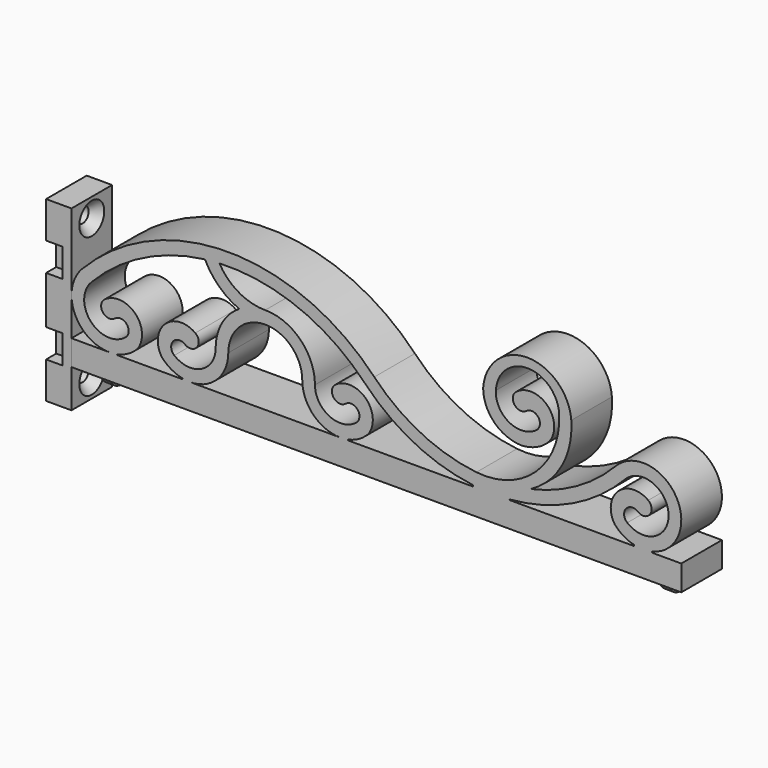
from build123d import *

# Parameters (mm, degrees)
F0_W           = 6.35
F0_H           = 44.45
F1_DEPTH       = 6.35
F2_W           = 3.937
F2_H           = 7.112
F3_DEPTH       = 4.7625
F5_D           = 3.7973
F5_CSINK_D     = 7.7978
F5_CSINK_ANGLE = 82
F8_DEPTH       = 6.35
F11_DEPTH      = 1.143
F14_DEPTH      = 1.143
F15_W          = 4.064
F15_H          = 7.112
F16_DEPTH      = 3.175


with BuildPart() as f1:
    # F0 (on Front) → F1 (new body, symmetric)
    with BuildSketch(Plane.XZ):
        Rectangle(F0_W, F0_H)
    extrude(amount=F1_DEPTH, both=True)

    # F2 (on face) → F3 (cut)
    with BuildSketch(Plane(origin=(-3.175, 0, 0), x_dir=(0, -1, 0), z_dir=(-1, 0, 0))):
        with Locations((0, 9.525)):
            Rectangle(F2_W, F2_H)
        with Locations((0, -9.525)):
            Rectangle(F2_W, F2_H)
    extrude(amount=-F3_DEPTH, mode=Mode.SUBTRACT)

    # F5 (through all)
    with Locations(Plane.YZ.offset(3.175)):
        with Locations((0, 17.4625), (0, -17.4625)):
            CounterSinkHole(F5_D / 2, F5_CSINK_D / 2, counter_sink_angle=F5_CSINK_ANGLE)

    # F15 (on face) → F16 (cut)
    with BuildSketch(Plane.XZ.offset(6.35)):
        with Locations((-1.143, 9.525)):
            Rectangle(F15_W, F15_H)
        with Locations((-1.143, -9.525)):
            Rectangle(F15_W, F15_H)
    extrude(amount=-F16_DEPTH, mode=Mode.SUBTRACT)


with BuildPart() as f8:
    # F7 (on Front) → F8 (new body, symmetric)
    with BuildSketch(Plane.XZ):
        with BuildLine():
            Line((12.7, -6.35), (3.175, -6.35))
            Line((3.175, -6.35), (3.175, -12.7))
            Line((3.175, -12.7), (14.2875, -12.7))
            Line((14.2875, -12.7), (144.5625834946, -12.7))
            Line((144.5625834946, -12.7), (155.6750834946, -12.7))
            Line((155.6750834946, -12.7), (155.6750834946, -6.35))
            Line((155.6750834946, -6.35), (148.5021922939, -6.35))
            ThreePointArc((148.5021922939, -6.35), (148.3580788731, -6.2225859603), (148.4668730467, -6.0639453495))
            ThreePointArc((148.4668730467, -6.0639453495), (154.3804826295, 7.9693878732), (139.2562374816, 9.7477096504))
            ThreePointArc((139.2562374816, 9.7477096504), (129.5037806783, 2.1697253309), (117.9591642139, -2.218678791))
            ThreePointArc((117.9591642139, -2.218678791), (125.8039665063, 5.4899725627), (128.1631921853, 16.2323318424))
            ThreePointArc((128.1631921853, 16.2323318424), (117.1418442393, 26.4792205859), (106.1204962932, 16.2323318424))
            ThreePointArc((106.1204962932, 16.2323318424), (108.0823783057, 10.4422652358), (113.15983935, 7.0373802622))
            ThreePointArc((113.15983935, 7.0373802622), (115.3769972686, 6.6640863202), (117.6116000187, 6.9124573185))
            ThreePointArc((117.6116000187, 6.9124573185), (120.3939871842, 7.9753675541), (122.7120509525, 9.8456715064))
            ThreePointArc((122.7120509525, 9.8456715064), (122.1424438367, 17.5947659007), (114.3836814777, 18.0125252276))
            ThreePointArc((114.3836814777, 18.0125252276), (113.9677725127, 15.0225614527), (116.9658802281, 14.6701217141))
            ThreePointArc((116.9658802281, 14.6701217141), (119.8656217416, 14.2905119355), (119.6241447484, 11.3760148449))
            ThreePointArc((119.6241447484, 11.3760148449), (112.7414311782, 10.6691417209), (109.3043522991, 16.6739651556))
            ThreePointArc((109.3043522991, 16.6739651556), (117.2181319858, 24.1507781775), (125.1319116725, 16.6739651556))
            ThreePointArc((125.1319116725, 16.6739651556), (119.3338490751, 2.073653457), (104.4377705355, -2.9156827438))
            ThreePointArc((104.4377705355, -2.9156827438), (90.5557194512, 1.1665394412), (78.9049942328, 9.7477096504))
            ThreePointArc((78.9049942328, 9.7477096504), (42.3555749323, 25.4), (5.8061551221, 9.747710841))
            ThreePointArc((5.8061551221, 9.747710841), (3.9441249506, -0.5747036043), (12.7, -6.35))
        make_face()
        with BuildLine():
            Line((42.4040103546, -6.35), (32.8790103546, -6.35))
            ThreePointArc((32.8790103546, -6.35), (39.6048411229, -3.5550297701), (42.389479598, 3.1750851377))
            ThreePointArc((42.389479598, 3.1750851377), (51.6399365376, 12.4254141584), (60.8903083398, 3.175))
            ThreePointArc((60.8903083398, 3.175), (63.680116249, -3.5601920908), (70.4153083398, -6.35))
            Line((70.4153083398, -6.35), (60.8903083398, -6.35))
            Line((60.8903083398, -6.35), (42.4040103546, -6.35))
        make_face(mode=Mode.SUBTRACT)
        with BuildLine():
            ThreePointArc((112.7424642446, -6.20032054), (128.4134060236, -1.971230267), (141.5541869093, 7.5568072273))
            ThreePointArc((141.5541869093, 7.5568072273), (152.4866200858, 3.5882844391), (142.1622860714, -1.7666567781))
            ThreePointArc((142.1622860714, -1.7666567781), (141.8440058077, 1.2128904936), (144.8235530793, 1.5311707573))
            ThreePointArc((144.8235530793, 1.5311707573), (147.8216607947, 1.8836104959), (147.4057518297, 4.8735742709))
            ThreePointArc((147.4057518297, 4.8735742709), (139.8134554086, 4.3627142336), (139.0835288352, -3.211660336))
            ThreePointArc((139.0835288352, -3.211660336), (141.2274153025, -4.9793217297), (143.7902276315, -6.0530390824))
            ThreePointArc((143.7902276315, -6.0530390824), (143.9025099516, -6.2180002291), (143.7528584905, -6.35))
            Line((143.7528584905, -6.35), (112.74858245, -6.35))
            ThreePointArc((112.74858245, -6.35), (112.6736802251, -6.2780968852), (112.7424642446, -6.20032054))
        make_face(mode=Mode.SUBTRACT)
        with BuildLine():
            ThreePointArc((16.6877974231, -1.7666567781), (8.0283630907, -1.1259660063), (8.1041034147, 7.5568072273))
            ThreePointArc((8.1041034147, 7.5568072273), (21.09299534, 17.1794235864), (36.5627344453, 21.8691177185))
            ThreePointArc((36.5627344453, 21.8691177185), (40.1051208921, 17.0272114642), (45.1259411578, 13.7433232546))
            ThreePointArc((45.1259411578, 13.7433232546), (40.8029525277, 9.22616916), (39.229010354, 3.1750851377))
            ThreePointArc((39.229010354, 3.1750851377), (35.6176603036, -2.5540746597), (28.8912129315, -1.7666567781))
            ThreePointArc((28.8912129315, -1.7666567781), (28.5729326677, 1.2128904936), (31.5524799393, 1.5311707573))
            ThreePointArc((31.5524799393, 1.5311707573), (34.5505876548, 1.8836104959), (34.1346786898, 4.8735742709))
            ThreePointArc((34.1346786898, 4.8735742709), (26.5423822687, 4.3627142336), (25.8124556953, -3.211660336))
            ThreePointArc((25.8124556953, -3.211660336), (28.1305194636, -5.0819642883), (30.9129066291, -6.1448745239))
            ThreePointArc((30.9129066291, -6.1448745239), (30.9946251149, -6.2570794195), (30.8915056926, -6.35))
            Line((30.8915056926, -6.35), (14.687504662, -6.35))
            ThreePointArc((14.687504662, -6.35), (14.5843852397, -6.2570794195), (14.6661037255, -6.1448745239))
            ThreePointArc((14.6661037255, -6.1448745239), (17.448490891, -5.0819642883), (19.7665546593, -3.211660336))
            ThreePointArc((19.7665546593, -3.211660336), (19.0366280859, 4.3627142336), (11.4443316648, 4.8735742709))
            ThreePointArc((11.4443316648, 4.8735742709), (11.0284226998, 1.8836104959), (14.0265304153, 1.5311707573))
            ThreePointArc((14.0265304153, 1.5311707573), (17.0060776869, 1.2128904936), (16.6877974231, -1.7666567781))
        make_face(mode=Mode.SUBTRACT)
        with BuildLine():
            ThreePointArc((40.1700301412, 22.1745061888), (59.9758804335, 18.8223696543), (76.6070448051, 7.5568072273))
            ThreePointArc((76.6070448051, 7.5568072273), (88.8533362909, -1.5318616167), (103.436497444, -5.9935840749))
            ThreePointArc((103.436497444, -5.9935840749), (103.592553348, -6.1823573261), (103.4139904195, -6.35))
            Line((103.4139904195, -6.35), (72.4028130018, -6.35))
            ThreePointArc((72.4028130018, -6.35), (72.2996935795, -6.2570794195), (72.3814120653, -6.1448745239))
            ThreePointArc((72.3814120653, -6.1448745239), (75.1637992309, -5.0819642883), (77.4818629991, -3.211660336))
            ThreePointArc((77.4818629991, -3.211660336), (76.7519364257, 4.3627142336), (69.1596400046, 4.8735742709))
            ThreePointArc((69.1596400046, 4.8735742709), (68.7437310396, 1.8836104959), (71.7418387551, 1.5311707573))
            ThreePointArc((71.7418387551, 1.5311707573), (74.7213860267, 1.2128904936), (74.4031057629, -1.7666567781))
            ThreePointArc((74.4031057629, -1.7666567781), (67.6766583907, -2.5540746597), (64.0653083404, 3.1750851378))
            ThreePointArc((64.0653083404, 3.1750851378), (60.4190158784, 11.9653004079), (51.6212651489, 15.5933736315))
            ThreePointArc((51.6212651489, 15.5933736315), (45.0137626955, 17.3494514739), (40.1700301412, 22.1745061888))
        make_face(mode=Mode.SUBTRACT)
    extrude(amount=F8_DEPTH, both=True)

    # F10 (on offset) → F11 (join, symmetric)
    with BuildSketch(Plane.YZ.offset(149.3250834946)):
        with BuildLine():
            Line((-2.38125, -12.7), (-3.96875, -12.7))
            ThreePointArc((-3.96875, -12.7), (0, -16.66875), (3.96875, -12.7))
            Line((3.96875, -12.7), (2.38125, -12.7))
            ThreePointArc((2.38125, -12.7), (0, -15.08125), (-2.38125, -12.7))
        make_face()
    extrude(amount=F11_DEPTH, both=True)

    # F13 (on offset) → F14 (join, symmetric)
    with BuildSketch(Plane.YZ.offset(9.525)):
        with BuildLine():
            ThreePointArc((2.38125, -12.7), (0, -15.08125), (-2.38125, -12.7))
            Line((-2.38125, -12.7), (-3.96875, -12.7))
            ThreePointArc((-3.96875, -12.7), (0, -16.66875), (3.96875, -12.7))
            Line((3.96875, -12.7), (2.38125, -12.7))
        make_face()
    extrude(amount=F14_DEPTH, both=True)


solid = Compound([f1.part, f8.part])
